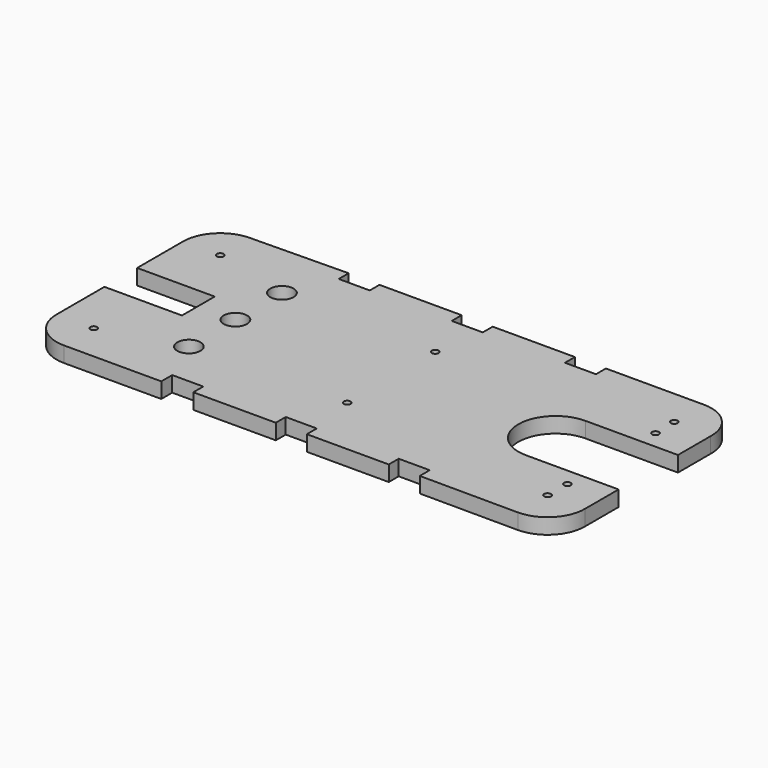
from build123d import *

# Parameters (mm, degrees)
SKETCH_R   = 1.1
SKETCH_R_2 = 3.75
PAD_DEPTH  = 5


with BuildPart() as part:
    # Sketch → Pad (new body)
    with BuildSketch(Plane.XY):
        with BuildLine():
            Line((-152.2, 62.598999), (-152.2, 44.092341))
            Line((-127.2, 44.092341), (-152.2, 44.092341))
            Line((-127.2, 30.892341), (-127.2, 44.092341))
            Line((-152.2, 30.892341), (-127.2, 30.892341))
            Line((-152.2, 30.892341), (-152.2, 12.001349))
            ThreePointArc((-152.2, 12.001349), (-148.833331, 3.256809), (-140.206767, -0.401585))
            Line((-140.206767, -0.401585), (-108.826601, -0.401585))
            Line((-108.826601, 4), (-108.826601, -0.401585))
            Line((-98.826601, 4), (-108.826601, 4))
            Line((-98.826601, 0), (-98.826601, 4))
            Line((-98.826601, 0), (-72.233324, 0))
            Line((-72.233324, 4), (-72.233324, 0))
            Line((-62.233324, 4), (-72.233324, 4))
            Line((-62.233324, 0), (-62.233324, 4))
            Line((-62.233324, 0), (-35.826601, 0))
            Line((-35.826601, 4), (-35.826601, 0))
            Line((-25.826601, 4), (-35.826601, 4))
            Line((-25.826601, 0), (-25.826601, 4))
            Line((-25.826601, 0), (5.867454, -0.117862))
            ThreePointArc((5.867454, -0.117862), (14.389845, 3.441069), (17.86, 11.999991))
            Line((17.86, 25.499993), (17.86, 11.999991))
            Line((17.86, 25.499993), (-12.05, 25.499993))
            ThreePointArc((-12.050007, 49.499989), (-24.049998, 37.499988), (-12.05, 25.499993))
            Line((17.8, 49.500007), (-12.050007, 49.499989))
            Line((17.8, 49.500007), (17.8, 62.599011))
            ThreePointArc((17.8, 62.599011), (14.433945, 71.344583), (5.806821, 75.003556))
            Line((5.806821, 75.003556), (-25.826601, 75.003556))
            Line((-25.826601, 71), (-25.826601, 75.003556))
            Line((-35.826601, 71), (-25.826601, 71))
            Line((-35.826601, 75), (-35.826601, 71))
            Line((-35.826601, 75), (-62.326601, 75))
            Line((-62.326601, 71), (-62.326601, 75))
            Line((-72.326601, 71), (-62.326601, 71))
            Line((-72.326601, 75), (-72.326601, 71))
            Line((-72.326601, 75), (-98.82, 75))
            Line((-98.82, 71.087749), (-98.82, 75))
            Line((-108.82, 71.087749), (-98.82, 71.087749))
            Line((-108.82, 75.087749), (-108.82, 71.087749))
            Line((-108.82, 75.087749), (-140.32794, 74.598317))
            ThreePointArc((-140.32794, 74.598317), (-148.730395, 71.038925), (-152.2, 62.598999))
        make_face()
        with Locations((5.962192, 55.25)):
            Circle(SKETCH_R, mode=Mode.SUBTRACT)
        with Locations((-65.037808, 55.25)):
            Circle(SKETCH_R, mode=Mode.SUBTRACT)
        with Locations((-65.037808, 19.75)):
            Circle(SKETCH_R, mode=Mode.SUBTRACT)
        with Locations((5.962192, 19.75)):
            Circle(SKETCH_R, mode=Mode.SUBTRACT)
        with Locations((-140.2, 62.598999)):
            Circle(SKETCH_R, mode=Mode.SUBTRACT)
        with Locations((-140.206767, 11.598415)):
            Circle(SKETCH_R, mode=Mode.SUBTRACT)
        with Locations((5.860579, 11.882136)):
            Circle(SKETCH_R, mode=Mode.SUBTRACT)
        with Locations((5.806821, 63.003556)):
            Circle(SKETCH_R, mode=Mode.SUBTRACT)
        with Locations((-115.261171, 37.5)):
            Circle(SKETCH_R_2, mode=Mode.SUBTRACT)
        with Locations((-115.261171, 56.25)):
            Circle(SKETCH_R_2, mode=Mode.SUBTRACT)
        with Locations((-115.261171, 18.75)):
            Circle(SKETCH_R_2, mode=Mode.SUBTRACT)
    extrude(amount=PAD_DEPTH)


solid = part.part
